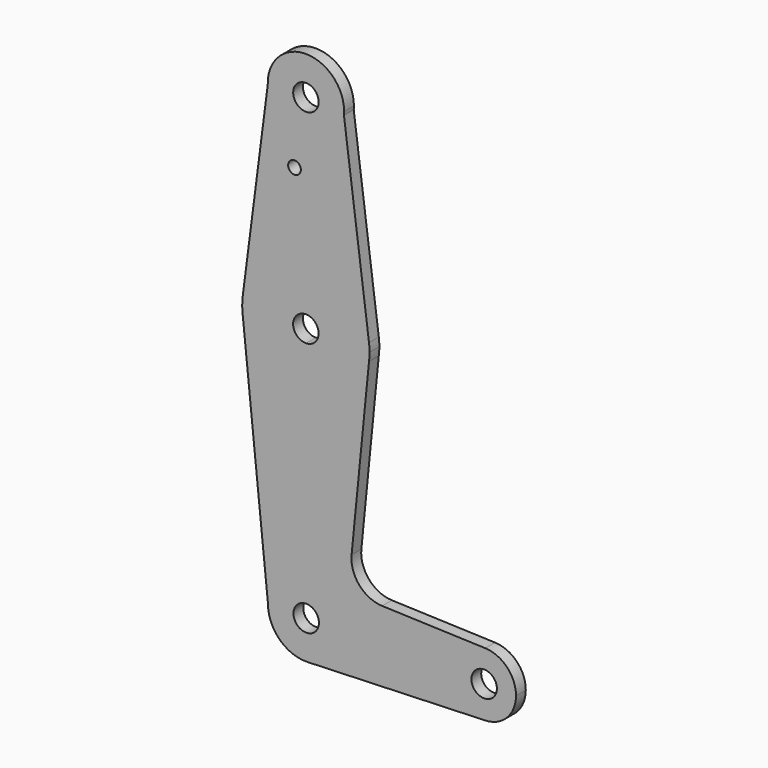
from build123d import *

# Parameters (mm, degrees)
F0_R     = 1.5875
F1_DEPTH = 3.048


with BuildPart() as f1:
    # F0 (on Front) → F1 (new body)
    with BuildSketch(Plane.XZ):
        with BuildLine():
            ThreePointArc((-75.6753693581, 0), (-78.3470859459, -6.6149929307), (-84.86342846, -9.5190385981))
            Line((-84.86342846, -9.5190385981), (-40.5487838648, -7.9324577843))
            ThreePointArc((-40.5487838677, -7.932457705), (-46.3434033437, -5.7117976611), (-48.7691637156, 0))
            Line((-48.7691637156, 0), (-75.6753693581, 0))
        make_face()
        with BuildLine():
            Line((-75.6753693581, 0), (-82.0253693581, 0))
            ThreePointArc((-82.0253693581, 0), (-87.4447145862, -2.2457826024), (-85.2024021121, 3.1749993493))
            Line((-85.2024021121, 3.1749993493), (-85.2064676202, 9.5249980478))
            ThreePointArc((-85.2064676202, 9.5249980478), (-91.9377171651, 6.7330356843), (-94.7253693581, 0))
            ThreePointArc((-94.7253693581, 0), (-91.8153622887, -6.8532834121), (-84.86342846, -9.5190385981))
            ThreePointArc((-84.86342846, -9.5190385981), (-78.3470859459, -6.6149929307), (-75.6753693581, 0))
        make_face()
        with BuildLine():
            ThreePointArc((-85.2064676202, 9.5249980478), (-78.4673336737, 6.7373478071), (-75.6753693581, 0))
            Line((-75.6753693581, 0), (-48.7691637156, 0))
            ThreePointArc((-48.7691637156, 0), (-46.3434033427, 5.7117976621), (-40.5487838648, 7.9324577049))
            Line((-40.5487838648, 7.9324577049), (-66.2591692567, 8.8493173028))
            ThreePointArc((-66.2591692567, 8.8493173028), (-71.9622560703, 11.5629791651), (-73.88730845, 17.5782375337))
            Line((-73.88730845, 17.5782375337), (-69.5415514392, 61.4448149102))
            ThreePointArc((-69.5415514392, 61.4448149102), (-74.7898684644, 51.5873712176), (-85.2308607298, 47.6250854802))
            Line((-85.2308607298, 47.6250854802), (-85.2064676202, 9.5249980478))
        make_face()
        with BuildLine():
            ThreePointArc((-94.7253693581, 0), (-91.9377171651, 6.7330356843), (-85.2064676202, 9.5249980478))
            Line((-85.2064676202, 9.5249980478), (-85.2308607298, 47.6250854802))
            ThreePointArc((-85.2308607298, 47.6250854802), (-95.9005830602, 51.6982359265), (-101.0750331076, 61.8795224794))
            Line((-101.0750331076, 61.8795224794), (-94.7253693581, 0))
        make_face()
        with BuildLine():
            ThreePointArc((-40.5487838648, 7.9324577049), (-46.3434033427, 5.7117976621), (-48.7691637156, 0))
            ThreePointArc((-48.7691637156, 0), (-46.3434033437, -5.7117976611), (-40.5487838677, -7.932457705))
            ThreePointArc((-40.5487838677, -7.932457705), (-35.1198660545, -5.5117396282), (-32.8941637156, 0))
            ThreePointArc((-32.8941637156, 0), (-35.1198660535, 5.5117396272), (-40.5487838648, 7.9324577049))
        make_face()
        with BuildLine():
            ThreePointArc((-37.6566637156, 0), (-40.8316637156, -3.175), (-44.0066637156, 0))
            ThreePointArc((-44.0066637156, 0), (-40.8316637156, 3.175), (-37.6566637156, 0))
        make_face(mode=Mode.SUBTRACT)
        with BuildLine():
            Line((-85.2389918878, 60.3253044089), (-85.2308607298, 47.6250854802))
            ThreePointArc((-85.2308607298, 47.6250854802), (-74.7898684644, 51.5873712176), (-69.5415514392, 61.4448149102))
            ThreePointArc((-69.5415514392, 61.4448149102), (-69.4413905838, 62.4702387036), (-69.4079566892, 63.5))
            ThreePointArc((-69.4079566892, 63.5), (-69.4413905838, 64.5297612964), (-69.5415514392, 65.5551850898))
            ThreePointArc((-69.5415514392, 65.5551850898), (-74.7974975266, 75.4193444094), (-85.2511881993, 79.374968213))
            Line((-85.2511881993, 79.374968213), (-85.2430570413, 66.6747492843))
            ThreePointArc((-85.2430570413, 66.6747492843), (-83.0238300458, 65.7309127748), (-82.1079566892, 63.5))
            ThreePointArc((-82.1079566892, 63.5), (-83.0224021948, 61.27053406), (-85.2389918878, 60.3253044089))
        make_face()
        with BuildLine():
            ThreePointArc((-101.0750331076, 61.8795224794), (-95.9005830602, 51.6982359265), (-85.2308607298, 47.6250854802))
            Line((-85.2308607298, 47.6250854802), (-85.2389918878, 60.3253044089))
            ThreePointArc((-85.2389918878, 60.3253044089), (-88.4579560385, 63.497967246), (-85.2430570413, 66.6747492843))
            Line((-85.2430570413, 66.6747492843), (-85.2511881993, 79.374968213))
            ThreePointArc((-85.2511881993, 79.374968213), (-95.754522015, 75.4315524819), (-101.0277766437, 65.528859187))
            ThreePointArc((-101.0277766437, 65.528859187), (-101.1566258558, 63.7055533743), (-101.0750331076, 61.8795224794))
        make_face()
        with BuildLine():
            Line((-94.7912444841, 113.9270312353), (-101.0277766437, 65.528859187))
            ThreePointArc((-101.0277766437, 65.528859187), (-95.754522015, 75.4315524819), (-85.2511881993, 79.374968213))
            Line((-85.2511881993, 79.374968213), (-85.2674502416, 104.7749785261))
            ThreePointArc((-85.2674502416, 104.7749785261), (-91.8733697124, 107.432081335), (-94.7912444841, 113.9270312353))
        make_face()
        with Locations((-88.1124958396, 97.9771912098)):
            Circle(F0_R, mode=Mode.SUBTRACT)
        with BuildLine():
            Line((-85.2674502416, 104.7749785261), (-85.2511881993, 79.374968213))
            ThreePointArc((-85.2511881993, 79.374968213), (-74.7974975266, 75.4193444094), (-69.5415514392, 65.5551850898))
            Line((-69.5415514392, 65.5551850898), (-75.78989157, 113.4134800079))
            ThreePointArc((-75.78989157, 113.4134800079), (-78.8571795631, 107.2603860591), (-85.2674502416, 104.7749785261))
        make_face()
        with BuildLine():
            ThreePointArc((-75.7485485038, 114.299976574), (-85.4600569314, 123.823150394), (-94.7912444841, 113.9270312353))
            ThreePointArc((-94.7912444841, 113.9270312353), (-91.8733697124, 107.432081335), (-85.2674502416, 104.7749785261))
            ThreePointArc((-85.2674502416, 104.7749785261), (-78.8571795631, 107.2603860591), (-75.78989157, 113.4134800079))
            ThreePointArc((-75.78989157, 113.4134800079), (-75.7588898842, 113.8562465291), (-75.7485485038, 114.299976574))
        make_face()
        with BuildLine():
            ThreePointArc((-82.0985485038, 114.299976574), (-83.0277659014, 112.0556313459), (-85.2715157497, 111.1249772247))
            ThreePointArc((-85.2715157497, 111.1249772247), (-87.5193311061, 116.5443218021), (-82.0985485038, 114.299976574))
        make_face(mode=Mode.SUBTRACT)
        with BuildLine():
            ThreePointArc((-85.2024021121, 3.1749993493), (-82.95602413, 2.2457826024), (-82.0253693581, 0))
            Line((-82.0253693581, 0), (-75.6753693581, 0))
            ThreePointArc((-75.6753693581, 0), (-78.4673336737, 6.7373478071), (-85.2064676202, 9.5249980478))
            Line((-85.2064676202, 9.5249980478), (-85.2024021121, 3.1749993493))
        make_face()
    extrude(amount=F1_DEPTH)


solid = f1.part
